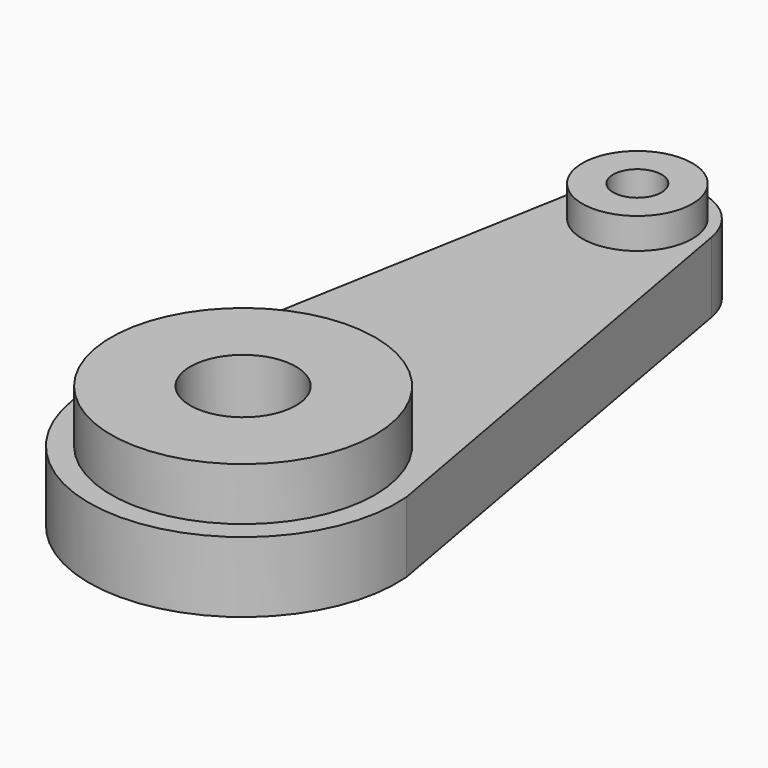
from build123d import *

# Parameters (mm, degrees)
F1_DEPTH = 16
F2_R     = 12.5
F2_R_2   = 30
F3_DEPTH = 12
F5_D     = 24
F7_D     = 11
F8_R     = 12.5
F9_DEPTH = 5


with BuildPart() as f1:
    # F0 (on Top) → F1 (new body)
    with BuildSketch(Plane.XY):
        with BuildLine():
            Line((-14.763017, 114.655808), (-33.669786, 9.557486))
            Line((-33.669786, 9.557486), (-34.88973, 2.776097))
            ThreePointArc((-34.88973, 2.776097), (0, -35), (34.88973, 2.776097))
            Line((34.88973, 2.776097), (14.763017, 114.655808))
            ThreePointArc((14.763017, 114.655808), (0, 127), (-14.763017, 114.655808))
        make_face()
    extrude(amount=F1_DEPTH)

    # F2 (on face) → F3 (join)
    with BuildSketch(Plane.XY.offset(16)):
        with Locations((0, 112)):
            Circle(F2_R)
        Circle(F2_R_2)
    extrude(amount=F3_DEPTH)

    # F5 (through all)
    with Locations(Plane.XY.offset(28)):
        with Locations((0, 0)):
            Hole(F5_D / 2)

    # F7 (through all)
    with Locations(Plane.XY.offset(28)):
        with Locations((0, 112)):
            Hole(F7_D / 2)

    # F8 (on face) → F9 (cut)
    with BuildSketch(Plane.XY.offset(28)):
        with Locations((0, 112)):
            Circle(F8_R)
    extrude(amount=-F9_DEPTH, mode=Mode.SUBTRACT)


solid = f1.part
